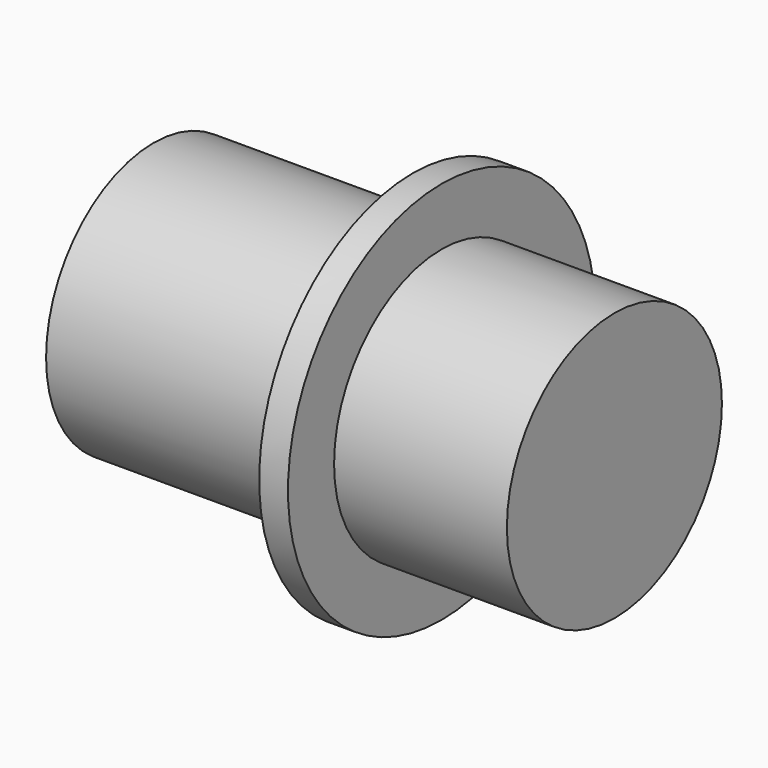
from build123d import *

# Parameters (mm, degrees)
CYLINDER101_R             = 15
CYLINDER101_DEPTH         = 2.25
CYLINDER100_R             = 10.5
CYLINDER100_DEPTH         = 36
FUSION030_PLACEMENT_ANGLE = 90


with BuildPart() as ethernet003:
    # Cylinder101 → Cylinder101 (new body)
    with BuildSketch(Plane.XY.offset(13.5)):
        Circle(CYLINDER101_R)
    extrude(amount=CYLINDER101_DEPTH)


with BuildPart() as obj1:
    # Cylinder100 → Cylinder100 (new body)
    with BuildSketch(Plane.XY):
        Circle(CYLINDER100_R)
    extrude(amount=CYLINDER100_DEPTH)

    # Fusion030: union Ethernet003
    add(ethernet003.part)


with BuildPart() as obj1_1:
    # Fusion030 placement: moved
    add(obj1.part.moved(Location((34, 5, 124.5))).rotate(Axis((34, 5, 124.5), (0, -1, 0)), FUSION030_PLACEMENT_ANGLE))


solid = obj1_1.part
